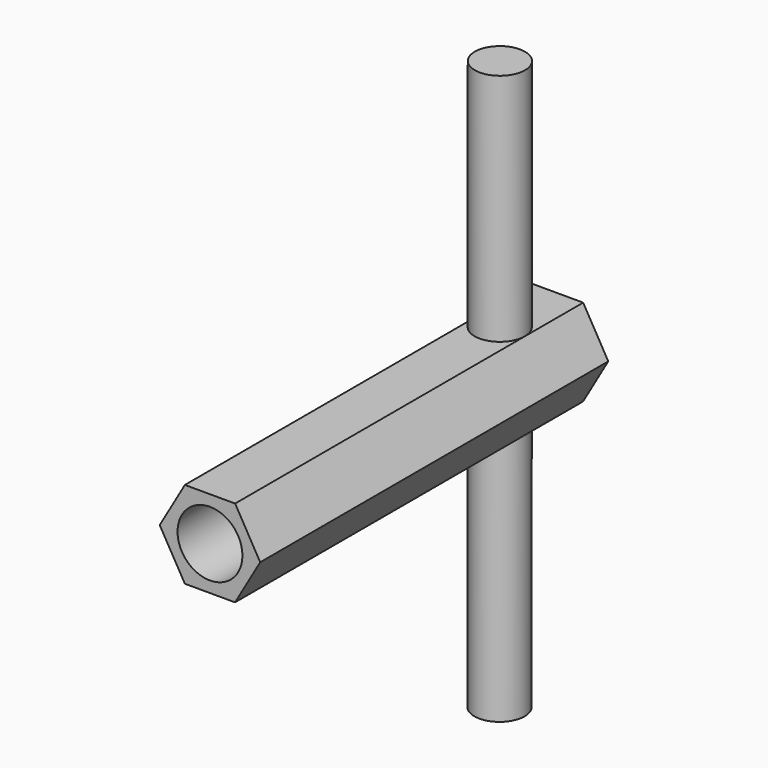
from build123d import *

# Parameters (mm, degrees)
F1_DEPTH      = 32.5
F2_R          = 3.7508720601
F3_DEPTH      = 35
F3_DEPTH_BACK = 50
F4_R          = 4.8477507868
F5_DEPTH      = 63.4
F6_R          = 3.4336134654
F7_DEPTH      = 90


with BuildPart() as f1:
    # F0 (on Front) → F1 (new body, symmetric)
    with BuildSketch(Plane.XZ):
        Polygon((3.7480990784, -6.5026984116), (7.5055515568, -0.005400188), (3.7574524784, 6.4972982236), (-3.7480990784, 6.5026984116), (-7.5055515568, 0.005400188), (-3.7574524784, -6.4972982236), align=None)
    extrude(amount=F1_DEPTH, both=True)

    # F2 (on face) → F3 (join, two sides)
    with BuildSketch(Plane(origin=(0.0046767, 0, 6.4999983176), x_dir=(0.9999997412, 0, -0.0007194923), z_dir=(0.0007194923, 0, 0.9999997412))) as f3_sk:
        with Locations((0, 21.6074604541)):
            Circle(F2_R)
    extrude(amount=F3_DEPTH)
    extrude(f3_sk.sketch, amount=-F3_DEPTH_BACK)

    # F4 (on face) → F5 (cut)
    with BuildSketch(Plane.XZ.offset(32.5)):
        Circle(F4_R)
        Circle(F4_R)
    extrude(amount=-F5_DEPTH, mode=Mode.SUBTRACT)

    # F6 (on face) → F7 (cut)
    with BuildSketch(Plane(origin=(0, 32.5, 0), x_dir=(-1, 0, 0), z_dir=(0, 1, 0))):
        Circle(F6_R)
    extrude(amount=-F7_DEPTH, mode=Mode.SUBTRACT)


solid = f1.part
